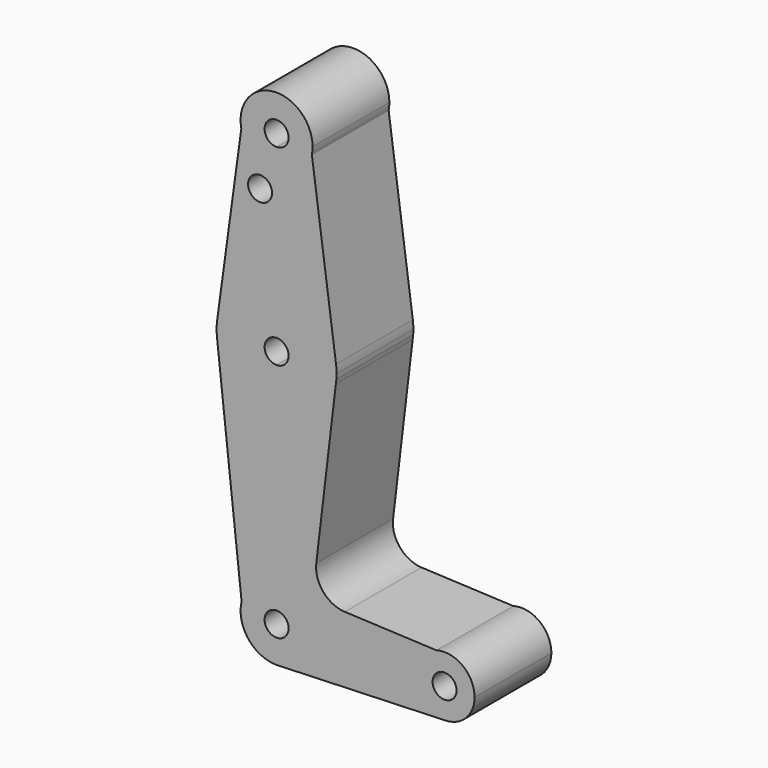
from build123d import *

# Parameters (mm, degrees)
F0_R     = 3.175
F1_DEPTH = 25.4


with BuildPart() as f1:
    # F0 (on Front) → F1 (new body)
    with BuildSketch(Plane.XZ):
        with BuildLine():
            Line((-9.3335918161, 112.4000818938), (-15.7285207247, 65.6515717072))
            ThreePointArc((-15.7285207247, 65.6515717072), (-10.4369397849, 75.4618524036), (0, 79.375))
            Line((0, 79.375), (0, 104.775))
            ThreePointArc((0, 104.775), (-6.0261474027, 106.923607082), (-9.3335918161, 112.4000818938))
        make_face()
        with Locations((-4.3701906689, 100.0252)):
            Circle(F0_R, mode=Mode.SUBTRACT)
        with BuildLine():
            Line((0, 104.775), (0, 79.375))
            ThreePointArc((0, 79.375), (10.4369397849, 75.4618524036), (15.7285207247, 65.6515717072))
            Line((15.7285207247, 65.6515717072), (9.3335918161, 112.4000818938))
            ThreePointArc((9.3335918161, 112.4000818938), (6.0261474027, 106.923607082), (0, 104.775))
        make_face()
        with BuildLine():
            ThreePointArc((9.525, 114.3), (-0.9547677601, 123.7770271459), (-9.3335918161, 112.4000818938))
            ThreePointArc((-9.3335918161, 112.4000818938), (-6.0261474027, 106.923607082), (0, 104.775))
            ThreePointArc((0, 104.775), (6.0261474027, 106.923607082), (9.3335918161, 112.4000818938))
            ThreePointArc((9.3335918161, 112.4000818938), (9.4770271459, 113.3452322399), (9.525, 114.3))
        make_face()
        with BuildLine():
            ThreePointArc((3.175, 114.3), (2.2450640303, 112.0549359697), (0, 111.125))
            ThreePointArc((0, 111.125), (-2.2450640303, 116.5450640303), (3.175, 114.3))
        make_face(mode=Mode.SUBTRACT)
        with BuildLine():
            ThreePointArc((-15.7285207247, 65.6515717072), (-15.8748204581, 63.5755011369), (-15.7482746081, 61.4981329045))
            ThreePointArc((-15.7482746081, 61.4981329045), (-10.4937120424, 51.5879207285), (0, 47.625))
            Line((0, 47.625), (0, 60.325))
            ThreePointArc((0, 60.325), (-3.175, 63.5), (0, 66.675))
            Line((0, 66.675), (0, 79.375))
            ThreePointArc((0, 79.375), (-10.4369397849, 75.4618524036), (-15.7285207247, 65.6515717072))
        make_face()
        with BuildLine():
            Line((0, 60.325), (0, 47.625))
            ThreePointArc((0, 47.625), (10.3300388922, 51.4457094159), (15.6877216443, 61.068742175))
            Line((15.6877216443, 61.068742175), (15.8195384397, 62.1741687302))
            ThreePointArc((15.8195384397, 62.1741687302), (15.8611285495, 62.836504608), (15.875, 63.5))
            ThreePointArc((15.875, 63.5), (15.8383378469, 64.5782760534), (15.7285207247, 65.6515717072))
            ThreePointArc((15.7285207247, 65.6515717072), (10.4369397849, 75.4618524036), (0, 79.375))
            Line((0, 79.375), (0, 66.675))
            ThreePointArc((0, 66.675), (2.2450640303, 65.7450640303), (3.175, 63.5))
            ThreePointArc((3.175, 63.5), (2.2450640303, 61.2549359697), (0, 60.325))
        make_face()
        with BuildLine():
            Line((-15.7482746081, 61.4981329045), (-9.2604148108, 2.2294265028))
            ThreePointArc((-9.2604148108, 2.2294265028), (-5.8945032683, 7.4820088358), (0, 9.525))
            Line((0, 9.525), (0, 47.625))
            ThreePointArc((0, 47.625), (-10.4937120424, 51.5879207285), (-15.7482746081, 61.4981329045))
        make_face()
        with BuildLine():
            Line((0, 47.625), (0, 9.525))
            ThreePointArc((0, 9.525), (6.7351920908, 6.7351920908), (9.525, 0))
            Line((9.525, 0), (36.5125, 0))
            ThreePointArc((36.5125, 0), (38.1270557047, 4.7983623965), (42.3138938112, 7.6446685082))
            Line((42.3138938112, 7.6446685082), (18.046423202, 8.7230587272))
            ThreePointArc((18.046423202, 8.7230587272), (12.3384863957, 11.5203793509), (10.5050912318, 17.6067746247))
            Line((10.5050912318, 17.6067746247), (15.6877216443, 61.068742175))
            ThreePointArc((15.6877216443, 61.068742175), (10.3300388922, 51.4457094159), (0, 47.625))
        make_face()
        with BuildLine():
            ThreePointArc((9.525, 0), (6.9705567315, -6.4912990883), (0.6773435479, -9.500885786))
            Line((0.6773435479, -9.500885786), (44.7324052746, -7.9324746146))
            ThreePointArc((44.7324052746, -7.9324746146), (38.9380895153, -5.7116327839), (36.5125, 0))
            Line((36.5125, 0), (9.525, 0))
        make_face()
        with BuildLine():
            ThreePointArc((36.5125, 0), (38.9380895153, -5.7116327839), (44.7324052746, -7.9324746146))
            ThreePointArc((44.7324052746, -7.9324746146), (50.1616327839, -5.5119104847), (52.3875, 0))
            ThreePointArc((52.3875, 0), (49.2483623965, 6.3229442953), (42.3138938112, 7.6446685082))
            ThreePointArc((42.3138938112, 7.6446685082), (38.1270557047, 4.7983623965), (36.5125, 0))
        make_face()
        with BuildLine():
            ThreePointArc((47.625, 0), (44.45, -3.175), (41.275, 0))
            ThreePointArc((41.275, 0), (44.45, 3.175), (47.625, 0))
        make_face(mode=Mode.SUBTRACT)
        with BuildLine():
            ThreePointArc((0, 9.525), (-5.8945032683, 7.4820088358), (-9.2604148108, 2.2294265028))
            ThreePointArc((-9.2604148108, 2.2294265028), (-7.4820088358, -5.8945032683), (0, -9.525))
            Line((0, -9.525), (0.6773435479, -9.500885786))
            ThreePointArc((0.6773435479, -9.500885786), (6.9705567315, -6.4912990883), (9.525, 0))
            Line((9.525, 0), (3.175, 0))
            ThreePointArc((3.175, 0), (-2.2450640303, -2.2450640303), (0, 3.175))
            Line((0, 3.175), (0, 9.525))
        make_face()
        with BuildLine():
            ThreePointArc((9.525, 0), (6.7351920908, 6.7351920908), (0, 9.525))
            Line((0, 9.525), (0, 3.175))
            ThreePointArc((0, 3.175), (2.2450640303, 2.2450640303), (3.175, 0))
            Line((3.175, 0), (9.525, 0))
        make_face()
    extrude(amount=F1_DEPTH)


solid = f1.part
